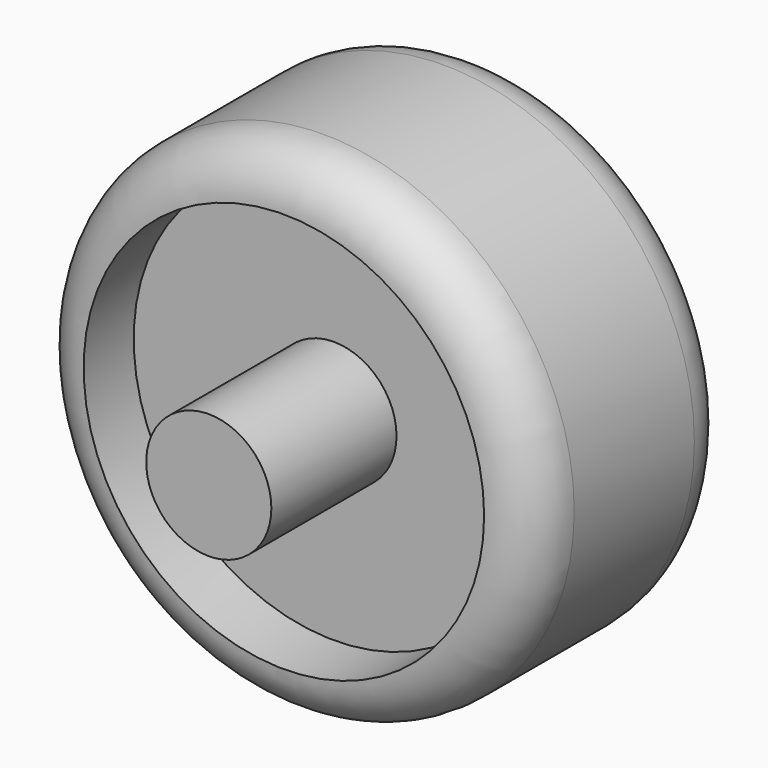
from build123d import *

# Parameters (mm, degrees)
F0_R     = 50.8
F1_DEPTH = 25.4
F2_R     = 10.16
F3_DEPTH = 12.7
F4_DEPTH = 12.7
F5_R     = 12.7
F6_DEPTH = 44.45


with BuildPart() as f1:
    # F0 (on Front) → F1 (new body, symmetric)
    with BuildSketch(Plane.XZ):
        Circle(F0_R)
    extrude(amount=F1_DEPTH, both=True)

    # F2
    f2_edges = [f1.edges().sort_by_distance(p)[0] for p in [
        (-50.8, -25.4, 0),
        (-50.8, 25.4, 0),
    ]]
    fillet(f2_edges, radius=F2_R)

    # F3 (cut): faces of the model
    f3_faces = [f1.faces().sort_by_distance(p)[0] for p in [
        (0, -25.4, 0),
        (0, 25.4, 0),
    ]]
    extrude(f3_faces, amount=F3_DEPTH, dir=(0, -1, 0), mode=Mode.SUBTRACT)

    # F4 (cut): a face of the model
    f4_faces = [f1.faces().sort_by_distance(p)[0] for p in [
        (0, -25.4, 0),
    ]]
    extrude(f4_faces, amount=-F4_DEPTH, mode=Mode.SUBTRACT)

    # F5 (on Front) → F6 (join, symmetric)
    with BuildSketch(Plane.XZ):
        Circle(F5_R)
    extrude(amount=F6_DEPTH, both=True)


solid = f1.part
